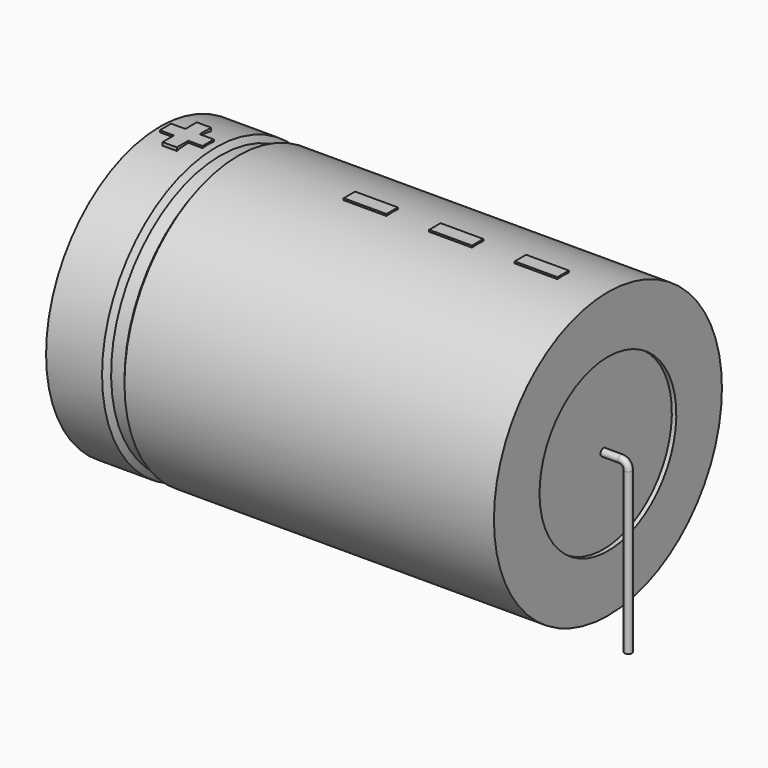
from build123d import *

# Parameters (mm, degrees)
SKETCH_R    = 0.45
SKETCH004_W = 5.25
SKETCH004_H = 1.75
PAD_DEPTH   = 17.675


with BuildPart() as sweep_body:
    # Sweep: sweep along a path in Sketch001
    with BuildLine(Plane.XZ) as sweep_path:
        Line((0, -3), (0, 16.7))
        ThreePointArc((0, 16.7), (0.263601, 17.336393), (0.899993, 17.6))
        Line((0.899993, 17.6), (59.1, 17.6))
        ThreePointArc((59.1, 17.6), (59.736396, 17.336396), (60, 16.7))
        Line((60, 16.7), (60, -3))
    # Sketch → Sweep (sweep)
    with BuildSketch(Plane.XY.offset(-2)):
        Circle(SKETCH_R)
    sweep(path=sweep_path.line)


with BuildPart() as revolution:
    # Sketch002 → Revolution (revolve)
    with BuildSketch(Plane.XZ):
        Polygon((2.5, 35.1), (2.5, 28.1), (57.5, 28.1), (57.5, 35.1), (12.125, 35.1), (11.575, 34.4), (9.925, 34.4), (9.375, 35.1), align=None)
    revolve(axis=Axis((6.97588, 0, 17.6), (1, 0, 0)))


with BuildPart() as revolution001:
    # Sketch003 → Revolution001 (revolve)
    with BuildSketch(Plane.XZ):
        Polygon((3.05, 34.4), (5.8, 34.4), (5.8, 19.35), (54.2, 19.35), (54.2, 34.4), (56.95, 34.4), (56.95, 17.6), (3.05, 17.6), align=None)
    revolve(axis=Axis((6.97588, 0, 17.6), (1, 0, 0)))


with BuildPart() as pad:
    # Sketch004 → Pad (new body)
    with BuildSketch(Plane.XY.offset(17.6)):
        with Locations((49.375, 0)):
            Rectangle(SKETCH004_W, SKETCH004_H)
        with Locations((38.875, 0)):
            Rectangle(SKETCH004_W, SKETCH004_H)
        with Locations((28.375, 0)):
            Rectangle(SKETCH004_W, SKETCH004_H)
        Polygon((4.91, 0.875), (3.16, 0.875), (3.16, -0.875), (4.91, -0.875), (4.91, -2.625), (6.66, -2.625), (6.66, -0.875), (8.41, -0.875), (8.41, 0.875), (6.66, 0.875), (6.66, 2.625), (4.91, 2.625), align=None)
    extrude(amount=PAD_DEPTH)


solid = Compound([sweep_body.part, revolution.part, revolution001.part, pad.part])
